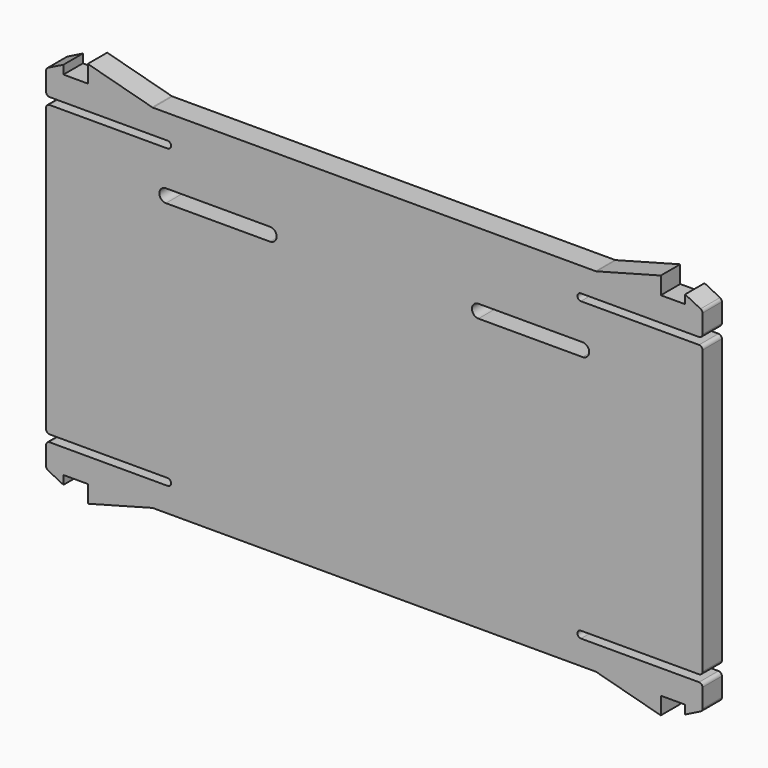
from build123d import *

# Parameters (mm, degrees)
PAD009_DEPTH    = 2.8
FILLET004_R     = 0.4
POCKET014_DEPTH = 2.801


with BuildPart() as part:
    # Sketch009 → Pad009 (new body)
    with BuildSketch(Plane.XZ.offset(60.5)):
        with BuildLine():
            Line((37.8, 3.2), (37.8, 0.4))
            Line((37.8, 0.4), (23.8, 0.4))
            ThreePointArc((23.8, 0.4), (23.4, 0), (23.8, -0.4))
            Line((23.8, -0.4), (37.8, -0.4))
            Line((37.8, -0.4), (37.8, -33.8))
            Line((37.8, -33.8), (23.8, -33.8))
            ThreePointArc((23.8, -33.8), (23.4, -34.2), (23.8, -34.6))
            Line((23.8, -34.6), (37.8, -34.6))
            Line((37.8, -34.6), (37.8, -37.4))
            Line((37.8, -37.4), (35.8, -38.4))
            Line((35.8, -38.4), (35.8, -37.4))
            Line((35.8, -37.4), (33, -37.4))
            Line((33, -37.4), (33, -39.4))
            Line((33, -39.4), (25.535898, -37.4))
            Line((25.535898, -37.4), (-25.535898, -37.4))
            Line((-25.535898, -37.4), (-33, -39.4))
            Line((-33, -39.4), (-33, -37.4))
            Line((-33, -37.4), (-35.8, -37.4))
            Line((-35.8, -38.4), (-35.8, -37.4))
            Line((-37.8, -37.4), (-35.8, -38.4))
            Line((-37.8, -37.4), (-37.8, -34.6))
            Line((-37.8, -34.6), (-23.8, -34.6))
            ThreePointArc((-23.8, -34.6), (-23.4, -34.2), (-23.8, -33.8))
            Line((-23.8, -33.8), (-37.8, -33.8))
            Line((-37.8, -33.8), (-37.8, -0.4))
            Line((-37.8, -0.4), (-23.8, -0.4))
            ThreePointArc((-23.8, -0.4), (-23.4, 0), (-23.8, 0.4))
            Line((-23.8, 0.4), (-37.8, 0.4))
            Line((-37.8, 0.4), (-37.8, 3.2))
            Line((-37.8, 3.2), (-35.8, 4.2))
            Line((-35.8, 4.2), (-35.8, 3.2))
            Line((-35.8, 3.2), (-33, 3.2))
            Line((-33, 3.2), (-33, 5.2))
            Line((-33, 5.2), (-25.535898, 3.2))
            Line((-25.535898, 3.2), (25.535898, 3.2))
            Line((25.535898, 3.2), (33, 5.2))
            Line((33, 5.2), (33, 3.2))
            Line((33, 3.2), (35.8, 3.2))
            Line((35.8, 3.2), (35.8, 4.2))
            Line((37.8, 3.2), (35.8, 4.2))
        make_face()
    extrude(amount=-PAD009_DEPTH)

    # Fillet004
    fillet004_edges = [part.edges().sort_by_distance(p)[0] for p in [
        (37.8, -59.1, -0.4),
        (37.8, -59.1, 0.4),
        (37.8, -59.1, 3.2),
        (25.535898, -59.1, 3.2),
        (-25.535898, -59.1, 3.2),
        (-37.8, -59.1, 3.2),
        (-37.8, -59.1, 0.4),
        (-37.8, -59.1, -0.4),
        (-37.8, -59.1, -33.8),
        (-37.8, -59.1, -34.6),
        (-37.8, -59.1, -37.4),
        (-25.535898, -59.1, -37.4),
        (25.535898, -59.1, -37.4),
        (37.8, -59.1, -37.4),
        (37.8, -59.1, -34.6),
        (37.8, -59.1, -33.8),
    ]]
    fillet(fillet004_edges, radius=FILLET004_R)

    # Sketch025 → Pocket014 (cut, through all)
    with BuildSketch(Plane.XZ.offset(60.5)):
        with BuildLine():
            ThreePointArc((-24, -4.49), (-24.755, -5.245), (-24, -6))
            Line((-24, -6), (-12, -6))
            ThreePointArc((-12, -6), (-11.245, -5.245), (-12, -4.49))
            Line((-24, -4.49), (-12, -4.49))
        make_face()
        with BuildLine():
            ThreePointArc((12, -4.49), (11.245, -5.245), (12, -6))
            Line((12, -6), (24, -6))
            ThreePointArc((24, -6), (24.755, -5.245), (24, -4.49))
            Line((12, -4.49), (24, -4.49))
        make_face()
    extrude(amount=-POCKET014_DEPTH, mode=Mode.SUBTRACT)


solid = part.part
